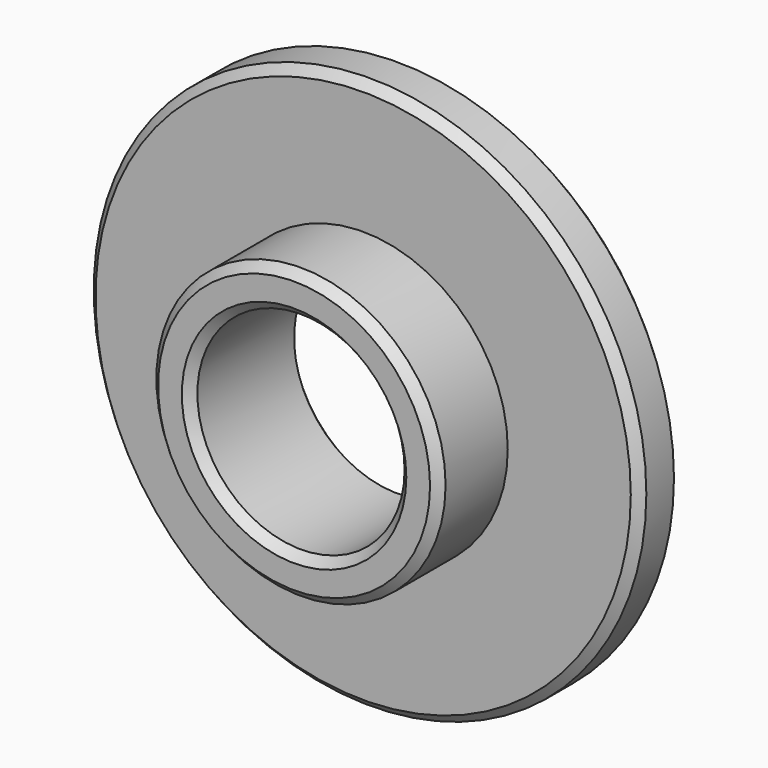
from build123d import *

# Parameters (mm, degrees)
F0_R     = 16
F0_R_2   = 8.375
F0_R_3   = 6
F1_DEPTH = 3
F2_DEPTH = 8
F3_SIZE  = 0.5


with BuildPart() as f1:
    # F0 (on Front) → F1 (new body)
    with BuildSketch(Plane.XZ):
        Circle(F0_R)
        Circle(F0_R_2, mode=Mode.SUBTRACT)
        Circle(F0_R_2)
        Circle(F0_R_3, mode=Mode.SUBTRACT)
    extrude(amount=F1_DEPTH)

    # F0 (on Front) → F2 (join)
    with BuildSketch(Plane.XZ):
        Circle(F0_R_2)
        Circle(F0_R_3, mode=Mode.SUBTRACT)
    extrude(amount=F2_DEPTH)

    # F3
    f3_edges = [f1.edges().sort_by_distance(p)[0] for p in [
        (16, -1.5, 0),
        (-16, 0, 0),
        (-16, -3, 0),
        (-6, 0, 0),
        (6, -4, 0),
        (-6, -8, 0),
        (-8.375, -8, 0),
    ]]
    chamfer(f3_edges, length=F3_SIZE)


solid = f1.part
